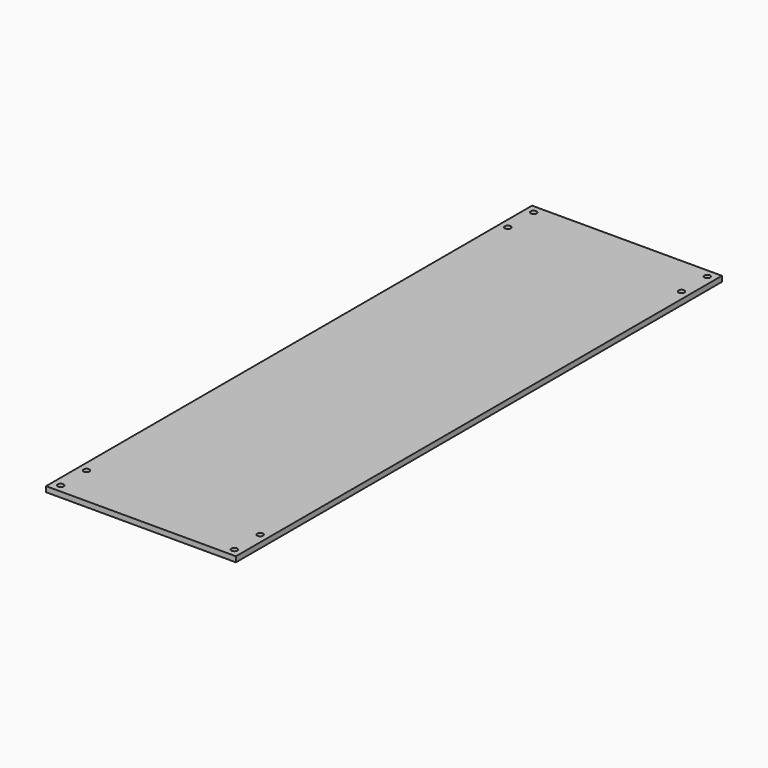
from build123d import *

# Parameters (mm, degrees)
F0_W     = 111.824948
F0_H     = 357.780718
F0_R     = 1.7272
F1_DEPTH = 3.175


with BuildPart() as f1:
    # F0 (on Top) → F1 (new body)
    with BuildSketch(Plane.XY):
        Rectangle(F0_W, F0_H)
        with Locations((-51.149974, -174.127859)):
            Circle(F0_R, mode=Mode.SUBTRACT)
        with Locations((-51.149974, -155.077858)):
            Circle(F0_R, mode=Mode.SUBTRACT)
        with Locations((51.149974, -174.127859)):
            Circle(F0_R, mode=Mode.SUBTRACT)
        with Locations((51.149974, -155.077859)):
            Circle(F0_R, mode=Mode.SUBTRACT)
        with Locations((-51.149974, 155.077859)):
            Circle(F0_R, mode=Mode.SUBTRACT)
        with Locations((-51.149974, 174.127859)):
            Circle(F0_R, mode=Mode.SUBTRACT)
        with Locations((51.149974, 155.077858)):
            Circle(F0_R, mode=Mode.SUBTRACT)
        with Locations((51.149974, 174.127859)):
            Circle(F0_R, mode=Mode.SUBTRACT)
    extrude(amount=F1_DEPTH)


solid = f1.part
